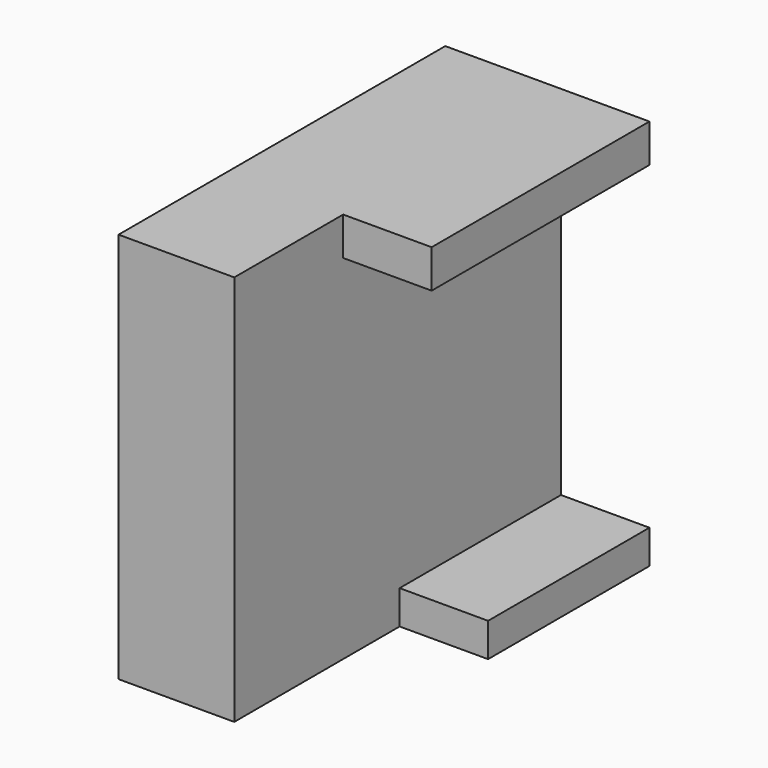
from build123d import *

# Parameters (mm, degrees)
F0_W     = 38.1
F0_H     = 73.025
F1_DEPTH = 76.2
F3_DEPTH = 16.51


with BuildPart() as f1:
    # F0 (on Front) → F1 (new body)
    with BuildSketch(Plane.XZ):
        with Locations((0, -2.248958)):
            Rectangle(F0_W, F0_H)
    extrude(amount=F1_DEPTH)

    # F2 (on face) → F3 (cut)
    with BuildSketch(Plane.YZ.offset(19.05)):
        Polygon((-50.799284, 27.123336), (-50.799284, 34.263542), (-76.2, 34.263542), (-76.2, -38.761458), (-37.635576, -38.761458), (-37.635576, -32.459758), (0, -32.459758), (0, 27.123336), align=None)
    extrude(amount=-F3_DEPTH, mode=Mode.SUBTRACT)


solid = f1.part
